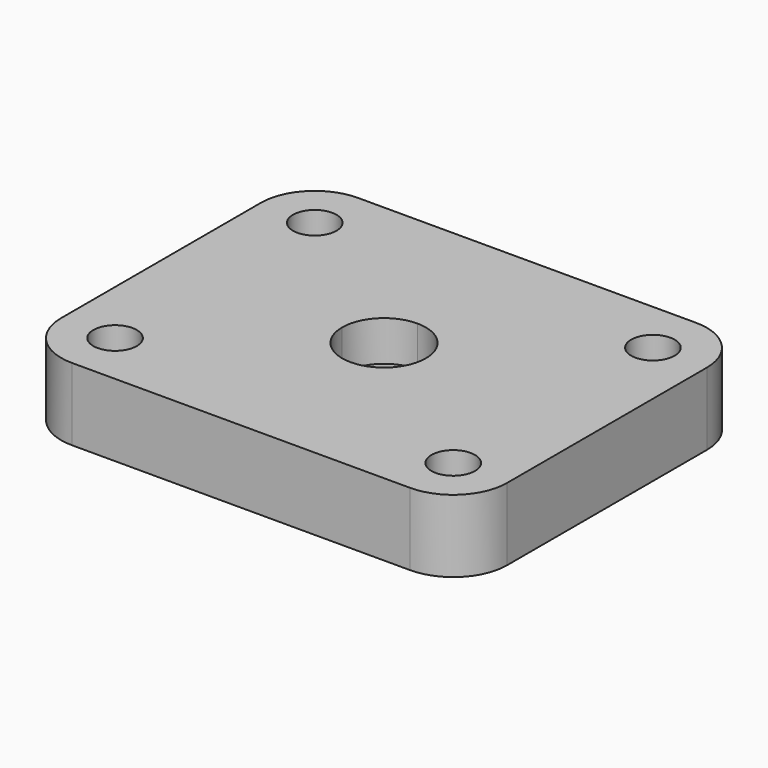
from build123d import *

# Parameters (mm, degrees)
SKETCH_R             = 2.7
PAD_DEPTH            = 9
SKETCH_MIRRORED_2_R  = 2.7
PAD_MIRRORED_2_DEPTH = 9
POCKET_DEPTH         = 4


with BuildPart() as part:
    # Sketch → Pad (new body)
    with BuildSketch(Plane.XY):
        with BuildLine():
            ThreePointArc((0, -5.2), (3.676955, -3.676955), (5.2, 0))
            Line((5.2, 0), (27.7, 0))
            Line((27.7, 0), (27.7, -15.5))
            ThreePointArc((21, -22.2), (25.737615, -20.237615), (27.7, -15.5))
            Line((21, -22.2), (0, -22.2))
            Line((0, -22.2), (0, -5.2))
        make_face()
        with Locations((21, -15.5)):
            Circle(SKETCH_R, mode=Mode.SUBTRACT)
    pad = extrude(amount=PAD_DEPTH)

    # Sketch Mirrored 2 → Pad Mirrored 2 (add)
    with BuildSketch(Plane(origin=(0, 0, 0), x_dir=(-1, 0, 0), z_dir=(0, 0, -1))):
        with BuildLine():
            ThreePointArc((0, -5.2), (3.676955, -3.676955), (5.2, 0))
            Line((5.2, 0), (27.7, 0))
            Line((27.7, 0), (27.7, -15.5))
            ThreePointArc((21, -22.2), (25.737615, -20.237615), (27.7, -15.5))
            Line((21, -22.2), (0, -22.2))
            Line((0, -22.2), (0, -5.2))
        make_face()
        with Locations((21, -15.5)):
            Circle(SKETCH_MIRRORED_2_R, mode=Mode.SUBTRACT)
    pad_mirrored_2 = extrude(amount=-PAD_MIRRORED_2_DEPTH)

    # Mirrored001: Pad, Pad Mirrored 2 across Sketch H_Axis
    add(pad.mirror(Plane.ZX))
    add(pad_mirrored_2.mirror(Plane.ZX))

    # Sketch001 → Pocket (cut)
    with BuildSketch(Plane.XY):
        Polygon((8.5, 4.907477), (0, 9.814955), (-8.5, 4.907477), (-8.5, -4.907477), (0, -9.814955), (8.5, -4.907477), align=None)
    extrude(amount=POCKET_DEPTH, mode=Mode.SUBTRACT)


solid = part.part
